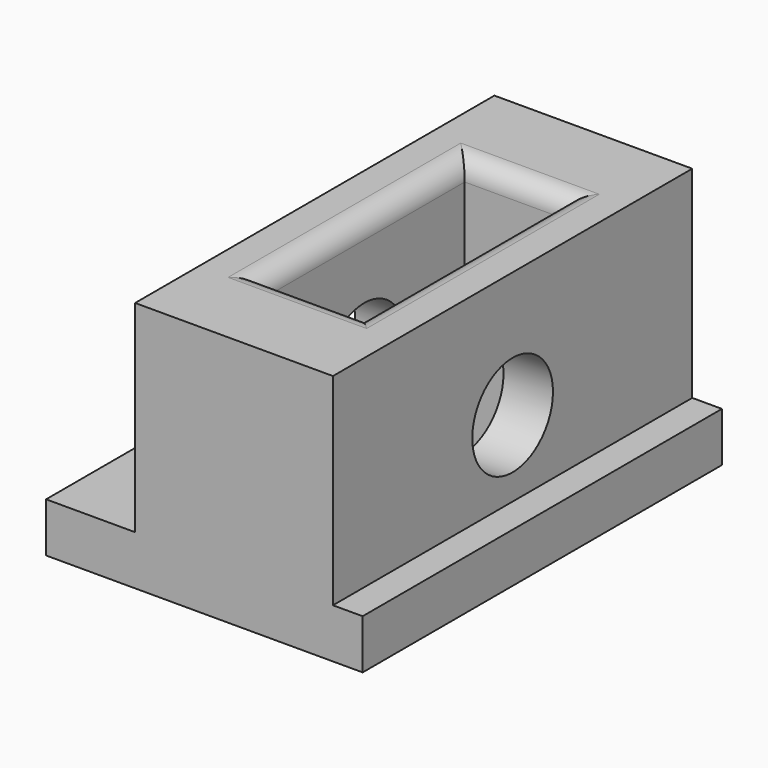
from build123d import *

# Parameters (mm, degrees)
F0_W     = 12.7
F0_H     = 28.829
F0_W_2   = 6.35
F0_H_2   = 16.129
F0_W_3   = 5.715
F0_W_4   = 1.905
F1_DEPTH = 3.175
F2_DEPTH = 16.129
F3_R     = 3.2385
F4_DEPTH = 18.416
F5_R     = 1.27


with BuildPart() as f1:
    # F0 (on Top) → F1 (new body)
    with BuildSketch(Plane.XY):
        with Locations((0, 8.0645)):
            Rectangle(F0_W, F0_H)
        with Locations((0, 8.0645)):
            Rectangle(F0_W_2, F0_H_2, mode=Mode.SUBTRACT)
        with Locations((-9.2075, 8.0645)):
            Rectangle(F0_W_3, F0_H)
        with Locations((7.3025, 8.0645)):
            Rectangle(F0_W_4, F0_H)
    extrude(amount=F1_DEPTH)

    # F0 (on Top) → F2 (join)
    with BuildSketch(Plane.XY):
        with Locations((0, 8.0645)):
            Rectangle(F0_W, F0_H)
        with Locations((0, 8.0645)):
            Rectangle(F0_W_2, F0_H_2, mode=Mode.SUBTRACT)
    extrude(amount=F2_DEPTH)

    # F3 (on face) → F4 (cut, through all)
    with BuildSketch(Plane.YZ.offset(6.35)):
        with Locations((8.0645, 8.0645)):
            Circle(F3_R)
    extrude(amount=-F4_DEPTH, mode=Mode.SUBTRACT)

    # F5
    f5_edges = [f1.edges().sort_by_distance(p)[0] for p in [
        (3.175, 8.0645, 16.129),
        (-3.175, 8.0645, 16.129),
        (0, 0, 16.129),
        (0, 16.129, 16.129),
    ]]
    fillet(f5_edges, radius=F5_R)


solid = f1.part
